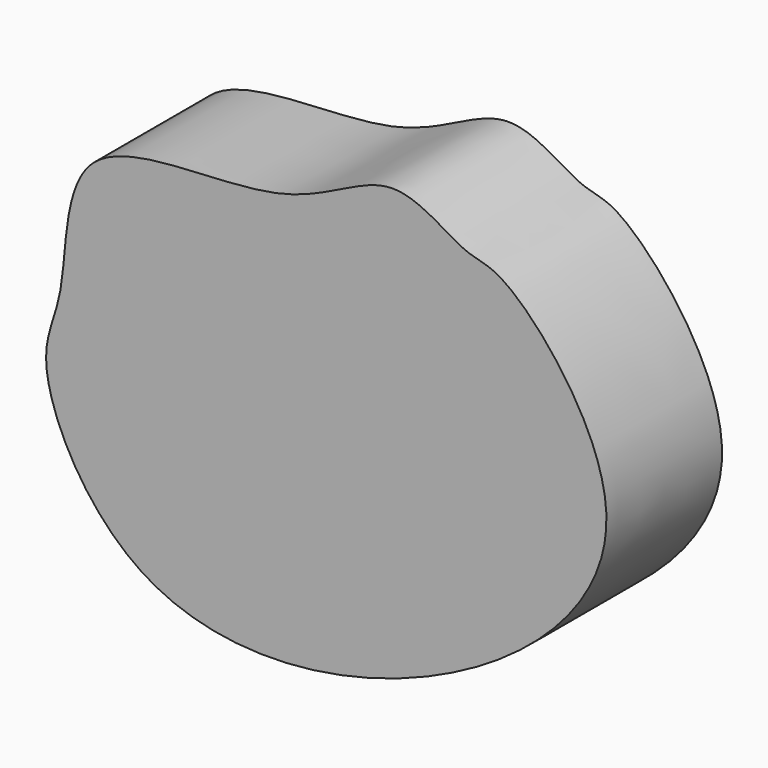
from build123d import *

# Parameters (mm, degrees)
F1_DEPTH = 25.4


with BuildPart() as f1:
    # F0 (on Front) → F1 (new body)
    with BuildSketch(Plane.XZ):
        with BuildLine():
            add(Edge.make_bspline(
                [(-50.8842281997, 7.7111115679), (-51.7616987674, 2.8437445403), (-56.7944524338, -4.1919474831), (-38.6255820931, -41.2626882793), (16.6481340481, -36.7286660212), (57.9694764934, 1.0729397794), (27.6731162219, 36.8610448001), (20.3169740604, 35.7308472831), (6.8120300811, 46.906727988), (-10.3498546174, 30.6554103056), (-51.3003859978, 37.2083604456), (-49.7146020853, 14.1990779951), (-50.8842281997, 7.7111115679)],
                knots=[0, 0, 0, 0, 0.0701967285, 0.1824505855, 0.3236354353, 0.4578009975, 0.5756510029, 0.6283655395, 0.7005018299, 0.791512513, 0.906431133, 1, 1, 1, 1], degree=3))
        make_face()
    extrude(amount=-F1_DEPTH)


solid = f1.part
